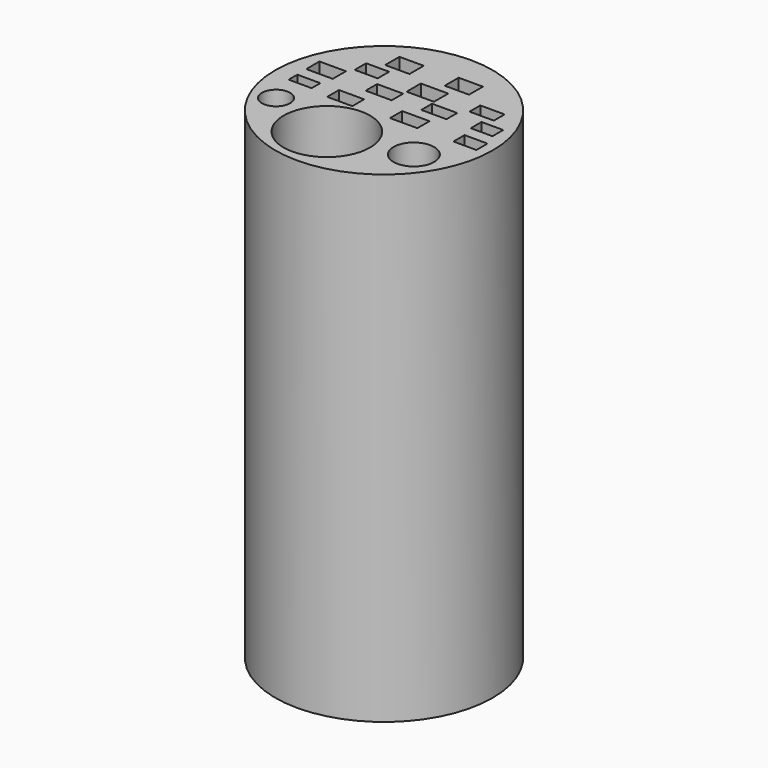
from build123d import *

# Parameters (mm, degrees)
F0_R     = 42.676453
F1_DEPTH = 163.83
F2_R     = 42.676453
F2_R_2   = 16.977509
F2_R_3   = 5.550938
F2_W     = 9.032015
F2_H     = 4.260384
F2_W_2   = 9.884089
F2_H_2   = 5.794122
F2_R_4   = 7.978639
F2_W_3   = 9.032009
F2_H_3   = 5.453291
F2_W_4   = 10.395335
F2_H_4   = 6.475783
F2_W_5   = 10.22492
F2_H_5   = 5.623706
F2_W_6   = 9.032014
F2_W_7   = 9.543261
F2_H_6   = 6.98703
F2_W_8   = 10.736168
F2_H_7   = 5.964537
F2_W_9   = 9.884088
F2_H_8   = 5.282876
F2_W_10  = 10.736166
F2_H_9   = 6.987029
F2_W_11  = 8.520767
F2_W_12  = 9.543257
F2_H_10  = 5.282875
F2_H_11  = 6.816613
F3_DEPTH = 25.4


with BuildPart() as f1:
    # F0 (on Top) → F1 (new body)
    with BuildSketch(Plane.XY):
        Circle(F0_R)
    extrude(amount=F1_DEPTH)

    # F2 (on face) → F3 (join)
    with BuildSketch(Plane.XY.offset(163.83)):
        Circle(F2_R)
        with Locations((-4.856836, -21.983579)):
            Circle(F2_R_2, mode=Mode.SUBTRACT)
        with Locations((-30.930383, -14.314889)):
            Circle(F2_R_3, mode=Mode.SUBTRACT)
        with Locations((-31.015591, -0.255623)):
            Rectangle(F2_W, F2_H, mode=Mode.SUBTRACT)
        with Locations((-14.229681, -1.022492)):
            Rectangle(F2_W_2, F2_H_2, mode=Mode.SUBTRACT)
        with Locations((25.477093, -17.211949)):
            Circle(F2_R_4, mode=Mode.SUBTRACT)
        with Locations((34.083065, -0.170416)):
            Rectangle(F2_W_3, F2_H_3, mode=Mode.SUBTRACT)
        with Locations((-30.504344, 9.713674)):
            Rectangle(F2_W_4, F2_H_4, mode=Mode.SUBTRACT)
        with Locations((-7.413067, 9.458051)):
            Rectangle(F2_W_5, F2_H_5, mode=Mode.SUBTRACT)
        with Locations((-19.256933, 18.149234)):
            Rectangle(F2_W_6, F2_H_5, mode=Mode.SUBTRACT)
        with Locations((-13.718434, 27.181246)):
            Rectangle(F2_W_7, F2_H_6, mode=Mode.SUBTRACT)
        with Locations((10.054506, 0.085207)):
            Rectangle(F2_W_8, F2_H_7, mode=Mode.SUBTRACT)
        with Locations((13.718434, 9.969297)):
            Rectangle(F2_W_9, F2_H_8, mode=Mode.SUBTRACT)
        with Locations((3.067476, 17.467572)):
            Rectangle(F2_W_10, F2_H_9, mode=Mode.SUBTRACT)
        with Locations((32.464124, 9.969297)):
            Rectangle(F2_W_11, F2_H_8, mode=Mode.SUBTRACT)
        with Locations((25.817924, 18.319649)):
            Rectangle(F2_W_12, F2_H_10, mode=Mode.SUBTRACT)
        with Locations((9.11722, 27.777701)):
            Rectangle(F2_W_12, F2_H_11, mode=Mode.SUBTRACT)
    extrude(amount=F3_DEPTH)


solid = f1.part
